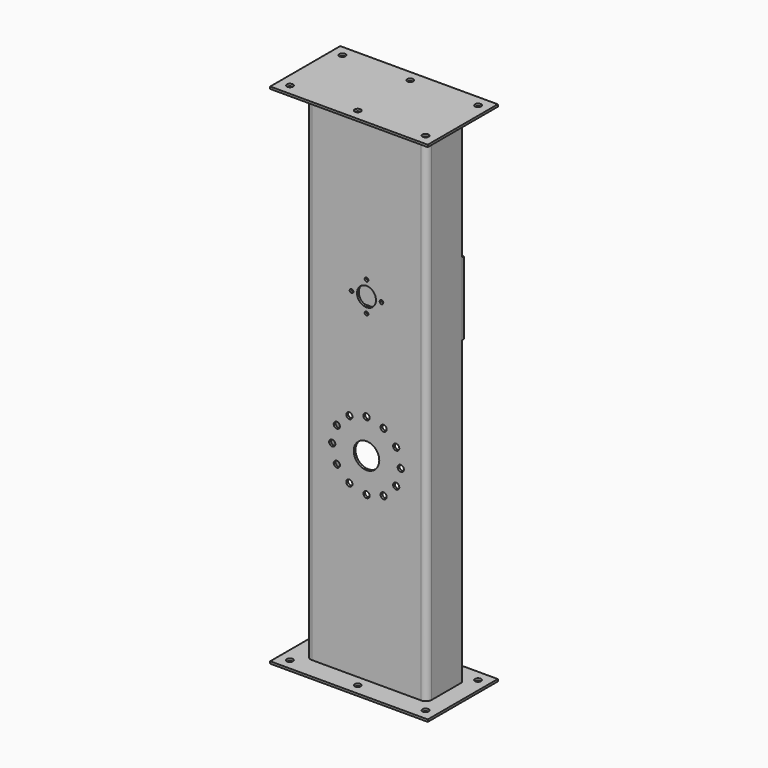
from build123d import *

# Parameters (mm, degrees)
F1_DEPTH = 690
F0_W     = 216
F0_H     = 120
F0_R     = 4.25
F2_DEPTH = 3
F3_R     = 2.5
F3_R_2   = 13
F3_R_3   = 4.25
F3_R_4   = 17.5
F4_DEPTH = 25
F6_W     = 163
F6_H     = 100
F6_R     = 2.5
F6_R_2   = 13
F6_W_2   = 3
F7_DEPTH = 3


with BuildPart() as f1:
    # F0 (on Top) → F1 (new body)
    with BuildSketch(Plane.XY):
        with BuildLine():
            Line((75, 0), (-75, 0))
            ThreePointArc((-75, 0), (-78.535534, 1.464466), (-80, 5))
            Line((-80, 5), (-80, 57))
            Line((-80, 57), (-83, 57))
            Line((-83, 57), (-83, 5))
            ThreePointArc((-83, 5), (-80.656854, -0.656854), (-75, -3))
            Line((-75, -3), (75, -3))
            ThreePointArc((75, -3), (80.656854, -0.656854), (83, 5))
            Line((83, 5), (83, 57))
            Line((83, 57), (80, 57))
            Line((80, 57), (80, 5))
            ThreePointArc((80, 5), (78.535534, 1.464466), (75, 0))
        make_face()
    extrude(amount=F1_DEPTH)

    # F3 (on face) → F4 (cut)
    with BuildSketch(Plane.XZ.offset(3)):
        with Locations((0, 483.5)):
            Circle(F3_R)
        with Locations((20.5, 463)):
            Circle(F3_R)
        with Locations((0, 442.5)):
            Circle(F3_R)
        with Locations((-20.5, 463)):
            Circle(F3_R)
        with Locations((0, 463)):
            Circle(F3_R_2)
        with Locations((23.5, 311.703194)):
            Circle(F3_R_3)
        with Locations((0, 318)):
            Circle(F3_R_3)
        with Locations((-23.5, 311.703194)):
            Circle(F3_R_3)
        with Locations((40.703194, 294.5)):
            Circle(F3_R_3)
        with Locations((47, 271)):
            Circle(F3_R_3)
        with Locations((40.703194, 247.5)):
            Circle(F3_R_3)
        with Locations((23.5, 230.296806)):
            Circle(F3_R_3)
        with Locations((0, 224)):
            Circle(F3_R_3)
        with Locations((-23.5, 230.296806)):
            Circle(F3_R_3)
        with Locations((-40.703194, 247.5)):
            Circle(F3_R_3)
        with Locations((-47, 271)):
            Circle(F3_R_3)
        with Locations((-40.703194, 294.5)):
            Circle(F3_R_3)
        with Locations((0, 271)):
            Circle(F3_R_4)
    extrude(amount=-F4_DEPTH, mode=Mode.SUBTRACT)


with BuildPart() as f2:
    # F0 (on Top) → F2 (new body)
    with BuildSketch(Plane.XY):
        with Locations((0, 27)):
            Rectangle(F0_W, F0_H)
        with Locations((-93, -18)):
            Circle(F0_R, mode=Mode.SUBTRACT)
        with Locations((0, -18)):
            Circle(F0_R, mode=Mode.SUBTRACT)
        with Locations((93, -18)):
            Circle(F0_R, mode=Mode.SUBTRACT)
        with Locations((-93, 72)):
            Circle(F0_R, mode=Mode.SUBTRACT)
        with BuildLine():
            ThreePointArc((-80, 5), (-78.535534, 1.464466), (-75, 0))
            Line((-75, 0), (75, 0))
            ThreePointArc((75, 0), (78.535534, 1.464466), (80, 5))
            Line((80, 5), (80, 57))
            Line((80, 57), (83, 57))
            Line((83, 57), (83, 5))
            ThreePointArc((83, 5), (80.656854, -0.656854), (75, -3))
            Line((75, -3), (-75, -3))
            ThreePointArc((-75, -3), (-80.656854, -0.656854), (-83, 5))
            Line((-83, 5), (-83, 57))
            Line((-83, 57), (-80, 57))
            Line((-80, 57), (-80, 5))
        make_face(mode=Mode.SUBTRACT)
        with Locations((0, 72)):
            Circle(F0_R, mode=Mode.SUBTRACT)
        with Locations((93, 72)):
            Circle(F0_R, mode=Mode.SUBTRACT)
        with BuildLine():
            Line((75, 0), (-75, 0))
            ThreePointArc((-75, 0), (-78.535534, 1.464466), (-80, 5))
            Line((-80, 5), (-80, 57))
            Line((-80, 57), (-83, 57))
            Line((-83, 57), (-83, 5))
            ThreePointArc((-83, 5), (-80.656854, -0.656854), (-75, -3))
            Line((-75, -3), (75, -3))
            ThreePointArc((75, -3), (80.656854, -0.656854), (83, 5))
            Line((83, 5), (83, 57))
            Line((83, 57), (80, 57))
            Line((80, 57), (80, 5))
            ThreePointArc((80, 5), (78.535534, 1.464466), (75, 0))
        make_face()
    extrude(amount=-F2_DEPTH)


with BuildPart() as f5_1:
    # F5: copy of F2
    add(f2.part.moved(Location((0, 0, 693.649))))


with BuildPart() as f7:
    # F6 (on face) → F7 (new body)
    with BuildSketch(Plane(origin=(0, 57, 0), x_dir=(-1, 0, 0), z_dir=(0, 1, 0))):
        with Locations((-1.5, 463)):
            Rectangle(F6_W, F6_H)
        with Locations((-20.5, 463)):
            Circle(F6_R, mode=Mode.SUBTRACT)
        with Locations((0, 442.5)):
            Circle(F6_R, mode=Mode.SUBTRACT)
        with Locations((0, 463)):
            Circle(F6_R_2, mode=Mode.SUBTRACT)
        with Locations((20.5, 463)):
            Circle(F6_R, mode=Mode.SUBTRACT)
        with Locations((0, 483.5)):
            Circle(F6_R, mode=Mode.SUBTRACT)
        with Locations((81.5, 463)):
            Rectangle(F6_W_2, F6_H)
    extrude(amount=F7_DEPTH)


solid = Compound([f1.part, f2.part, f5_1.part, f7.part])
